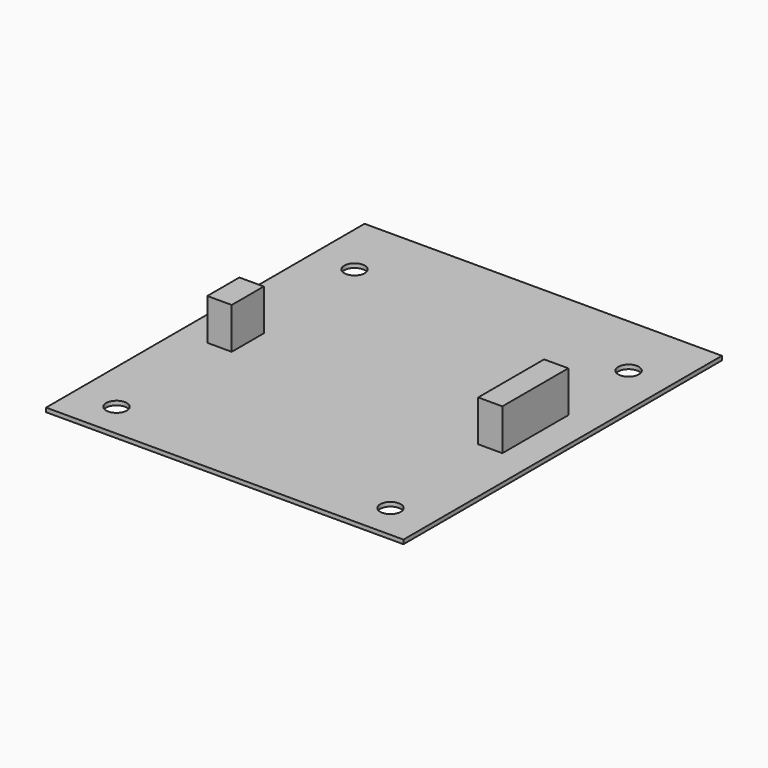
from build123d import *

# Parameters (mm, degrees)
F0_W     = 60.65
F0_H     = 67.55
F0_R     = 1.75
F1_DEPTH = 0.7
F2_W     = 4.145236
F2_H     = 6.791556
F2_W_2   = 4.105322
F2_H_2   = 13.98652
F3_DEPTH = 7


with BuildPart() as f1:
    # F0 (on Top) → F1 (new body)
    with BuildSketch(Plane.XY):
        Rectangle(F0_W, F0_H)
        with Locations((-23.175, -27.775)):
            Circle(F0_R, mode=Mode.SUBTRACT)
        with Locations((23.325, -27.775)):
            Circle(F0_R, mode=Mode.SUBTRACT)
        with Locations((-23.175, 22.725)):
            Circle(F0_R, mode=Mode.SUBTRACT)
        with Locations((23.325, 22.725)):
            Circle(F0_R, mode=Mode.SUBTRACT)
    extrude(amount=F1_DEPTH)


with BuildPart() as f3:
    # F2 (on face) → F3 (new body)
    with BuildSketch(Plane.XY.offset(0.7)):
        with Locations((-23.175, -2.525)):
            Rectangle(F2_W, F2_H)
        with Locations((23.022339, 0.756648)):
            Rectangle(F2_W_2, F2_H_2)
    extrude(amount=F3_DEPTH)


solid = Compound([f1.part, f3.part])
